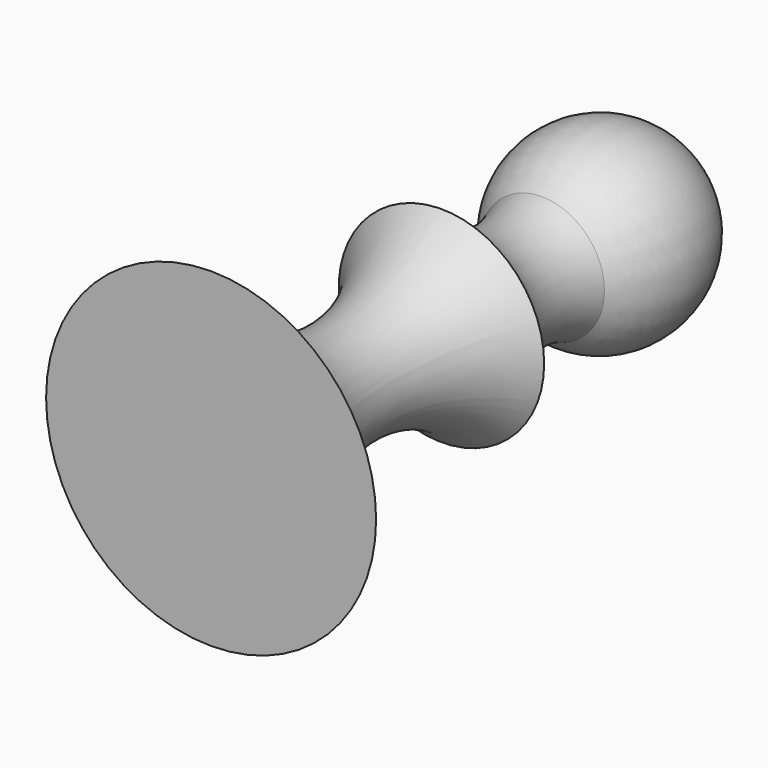
from build123d import *


with BuildPart() as f1:
    # F0 (on Top) → F1 (revolve)
    with BuildSketch(Plane.XY):
        with BuildLine():
            Line((0, 55.588342), (0, 28.840814))
            ThreePointArc((0, 28.840814), (4.628059, 29.754749), (8.651008, 32.218503))
            ThreePointArc((8.651008, 32.218503), (12.307238, 46.858088), (0, 55.588342))
        make_face()
        with BuildLine():
            ThreePointArc((8.651008, 32.218503), (4.628059, 29.754749), (0, 28.840814))
            Line((0, 28.840814), (0, -24.886832))
            Line((0, -24.886832), (22.793546, -24.886832))
            ThreePointArc((22.793546, -24.886832), (7.704219, -7.334538), (14.18782, 14.885581))
            ThreePointArc((14.18782, 14.885581), (8.149588, 22.507532), (8.651008, 32.218503))
        make_face()
    revolve(axis=Axis((0, 15.350755, 0), (0, -1, 0)))


solid = f1.part
